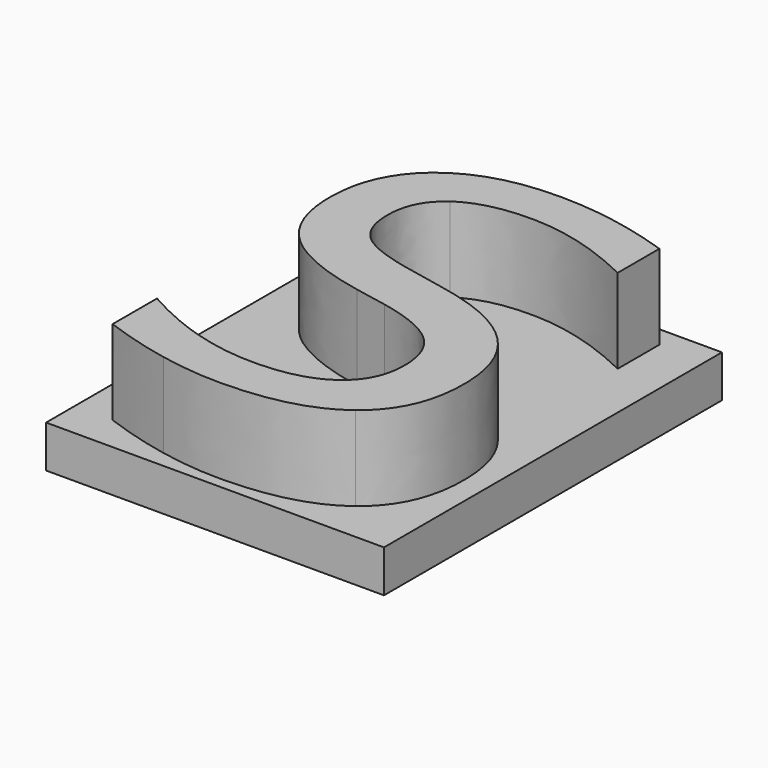
from build123d import *

# Parameters (mm, degrees)
RECTANGLE_W     = 40
RECTANGLE_H     = 50
EXTRUSION_DEPTH = 5
PAD_DEPTH       = 10


with BuildPart() as extrusion:
    # Rectangle → Extrusion (new body)
    with BuildSketch(Plane(origin=(-0.053421, -0.213677, 0), x_dir=(1, 0, 0), z_dir=(0, 0, 1))):
        with Locations((20, 25)):
            Rectangle(RECTANGLE_W, RECTANGLE_H)
    extrude(amount=EXTRUSION_DEPTH)


with BuildPart() as body:
    # Sketch → Pad (new body)
    with BuildSketch(Plane.XY.offset(5)):
        with BuildLine():
            Line((34.479866, 47.369128), (34.479866, 41.194631))
            add(Edge.make_bspline(
                [(34.479866, 41.194631), (30.861997, 42.956376), (27.653104, 43.82047)],
                knots=[0, 0, 0, 1, 1, 1], degree=2))
            add(Edge.make_bspline(
                [(27.653104, 43.82047), (24.444211, 44.684564), (21.455537, 44.684564)],
                knots=[0, 0, 0, 1, 1, 1], degree=2))
            add(Edge.make_bspline(
                [(21.455537, 44.684564), (16.264681, 44.684564), (13.447987, 42.662752)],
                knots=[0, 0, 0, 1, 1, 1], degree=2))
            add(Edge.make_bspline(
                [(13.447987, 42.662752), (10.633389, 40.64094), (10.633389, 36.916107)],
                knots=[0, 0, 0, 1, 1, 1], degree=2))
            add(Edge.make_bspline(
                [(10.633389, 36.916107), (10.633389, 33.78901), (12.504195, 32.192953)],
                knots=[0, 0, 0, 1, 1, 1], degree=2))
            add(Edge.make_bspline(
                [(12.504195, 32.192953), (14.377097, 30.598993), (19.599413, 29.619547)],
                knots=[0, 0, 0, 1, 1, 1], degree=2))
            Line((19.599413, 29.619547), (23.4375, 28.833054))
            add(Edge.make_bspline(
                [(23.4375, 28.833054), (30.547399, 27.480285), (33.928272, 24.067953)],
                knots=[0, 0, 0, 1, 1, 1], degree=2))
            add(Edge.make_bspline(
                [(33.928272, 24.067953), (37.311242, 20.655621), (37.311242, 14.92995)],
                knots=[0, 0, 0, 1, 1, 1], degree=2))
            add(Edge.make_bspline(
                [(37.311242, 14.92995), (37.311242, 8.105285), (32.732802, 4.581795)],
                knots=[0, 0, 0, 1, 1, 1], degree=2))
            add(Edge.make_bspline(
                [(32.732802, 4.581795), (28.15646, 1.060403), (19.316275, 1.060403)],
                knots=[0, 0, 0, 1, 1, 1], degree=2))
            add(Edge.make_bspline(
                [(19.316275, 1.060403), (15.981544, 1.060403), (12.221057, 1.807047)],
                knots=[0, 0, 0, 1, 1, 1], degree=2))
            add(Edge.make_bspline(
                [(12.221057, 1.807047), (8.462668, 2.551594), (4.435822, 4.013423)],
                knots=[0, 0, 0, 1, 1, 1], degree=2))
            Line((4.435822, 4.013423), (4.435822, 10.590604))
            add(Edge.make_bspline(
                [(4.435822, 10.590604), (8.305369, 8.392617), (12.017617, 7.276846)],
                knots=[0, 0, 0, 1, 1, 1], degree=2))
            add(Edge.make_bspline(
                [(12.017617, 7.276846), (15.729866, 6.161074), (19.316275, 6.161074)],
                knots=[0, 0, 0, 1, 1, 1], degree=2))
            add(Edge.make_bspline(
                [(19.316275, 6.161074), (24.758809, 6.161074), (27.716023, 8.306628)],
                knots=[0, 0, 0, 1, 1, 1], degree=2))
            add(Edge.make_bspline(
                [(27.716023, 8.306628), (30.673238, 10.454279), (30.673238, 14.430789)],
                knots=[0, 0, 0, 1, 1, 1], degree=2))
            add(Edge.make_bspline(
                [(30.673238, 14.430789), (30.673238, 17.901846), (28.548658, 19.858641)],
                knots=[0, 0, 0, 1, 1, 1], degree=2))
            add(Edge.make_bspline(
                [(28.548658, 19.858641), (26.426174, 21.815436), (21.581376, 22.794883)],
                knots=[0, 0, 0, 1, 1, 1], degree=2))
            Line((21.581376, 22.794883), (17.711829, 23.549916))
            add(Edge.make_bspline(
                [(17.711829, 23.549916), (10.60193, 24.965604), (7.424497, 27.985738)],
                knots=[0, 0, 0, 1, 1, 1], degree=2))
            add(Edge.make_bspline(
                [(7.424497, 27.985738), (4.247064, 31.005872), (4.247064, 36.385487)],
                knots=[0, 0, 0, 1, 1, 1], degree=2))
            add(Edge.make_bspline(
                [(4.247064, 36.385487), (4.247064, 42.612416), (8.634648, 46.198826)],
                knots=[0, 0, 0, 1, 1, 1], degree=2))
            add(Edge.make_bspline(
                [(8.634648, 46.198826), (13.024329, 49.785235), (20.731963, 49.785235)],
                knots=[0, 0, 0, 1, 1, 1], degree=2))
            add(Edge.make_bspline(
                [(20.731963, 49.785235), (24.035235, 49.785235), (27.464346, 49.181208)],
                knots=[0, 0, 0, 1, 1, 1], degree=2))
            add(Edge.make_bspline(
                [(27.464346, 49.181208), (30.893456, 48.577181), (34.479866, 47.369128)],
                knots=[0, 0, 0, 1, 1, 1], degree=2))
        make_face()
    extrude(amount=PAD_DEPTH)


solid = Compound([extrusion.part, body.part])
